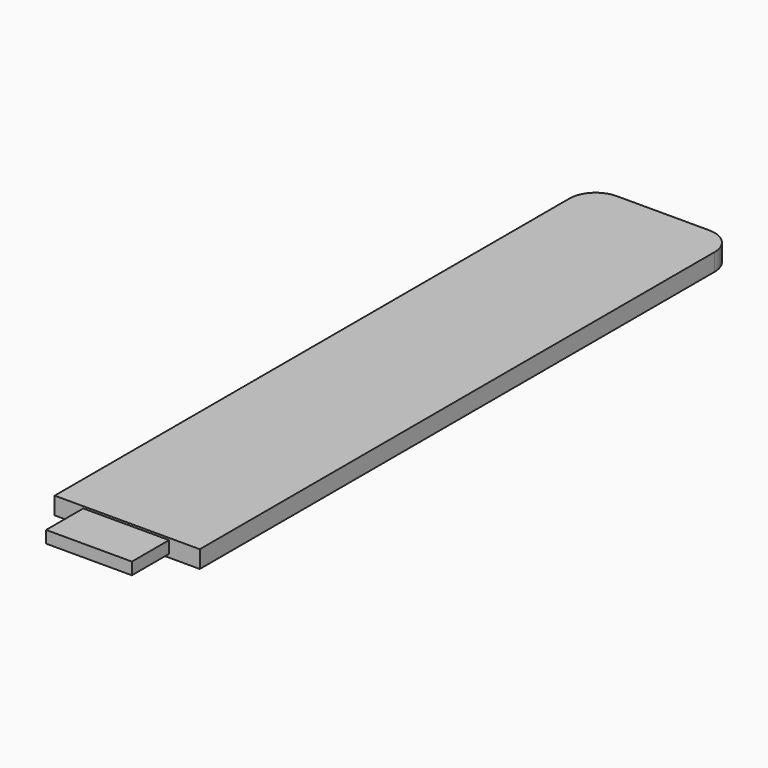
from build123d import *

# Parameters (mm, degrees)
F1_DEPTH = 1.524
F2_R     = 2.286
F3_W     = 7.501836
F3_H     = 1.057486
F4_DEPTH = 4.064


with BuildPart() as f1:
    # F0 (on Top) → F1 (new body)
    with BuildSketch(Plane.XY):
        Polygon((-6.250669, 49.563318), (-6.250669, -8.998585), (-4.305575, -8.998585), (4.510465, -8.998585), (6.438088, -8.998585), (6.438088, 49.563318), align=None)
    extrude(amount=F1_DEPTH)

    # F2
    f2_edges = [f1.edges().sort_by_distance(p)[0] for p in [
        (-6.250669, 49.563318, 0.762),
        (6.438088, 49.563318, 0.762),
    ]]
    fillet(f2_edges, radius=F2_R)

    # F3 (on face) → F4 (join)
    with BuildSketch(Plane.XZ.offset(8.998585)):
        with Locations((0, 0.820748)):
            Rectangle(F3_W, F3_H)
    extrude(amount=F4_DEPTH)


solid = f1.part
